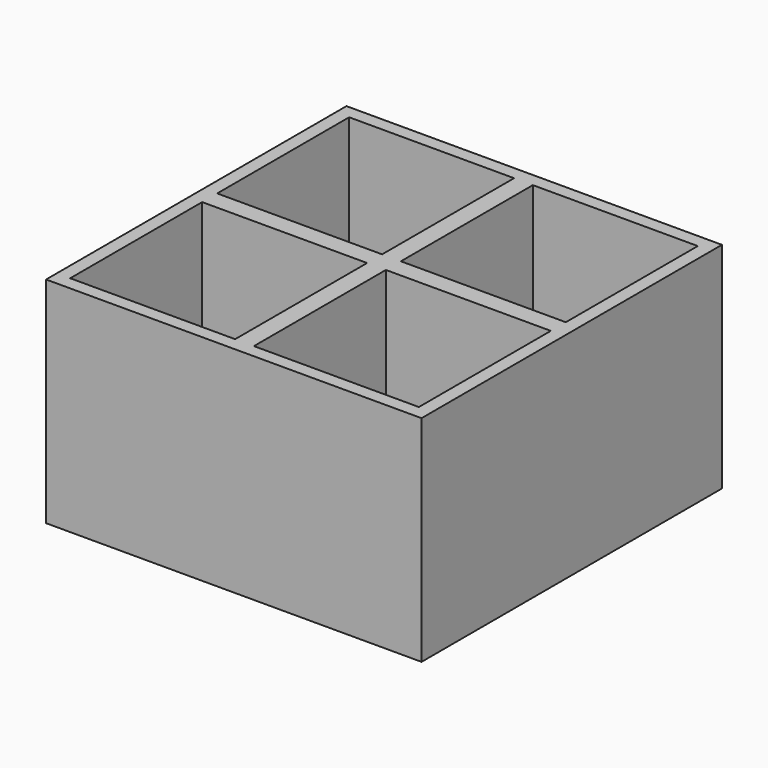
from build123d import *

# Parameters (mm, degrees)
F0_W     = 70
F0_H     = 70
F0_W_2   = 30.75
F0_H_2   = 30.75
F1_DEPTH = 40
F2_DEPTH = 5


with BuildPart() as f1:
    # F0 (on Top) → F1 (new body)
    with BuildSketch(Plane.XY):
        Rectangle(F0_W, F0_H)
        with Locations((-17.125, -17.125)):
            Rectangle(F0_W_2, F0_H_2, mode=Mode.SUBTRACT)
        with Locations((17.125, -17.125)):
            Rectangle(F0_W_2, F0_H_2, mode=Mode.SUBTRACT)
        with Locations((-17.125, 17.125)):
            Rectangle(F0_W_2, F0_H_2, mode=Mode.SUBTRACT)
        with Locations((17.125, 17.125)):
            Rectangle(F0_W_2, F0_H_2, mode=Mode.SUBTRACT)
    extrude(amount=F1_DEPTH)

    # F0 (on Top) → F2 (join)
    with BuildSketch(Plane.XY):
        with Locations((17.125, 17.125)):
            Rectangle(F0_W_2, F0_H_2)
        with Locations((17.125, -17.125)):
            Rectangle(F0_W_2, F0_H_2)
        with Locations((-17.125, -17.125)):
            Rectangle(F0_W_2, F0_H_2)
        with Locations((-17.125, 17.125)):
            Rectangle(F0_W_2, F0_H_2)
    extrude(amount=F2_DEPTH)


solid = f1.part
